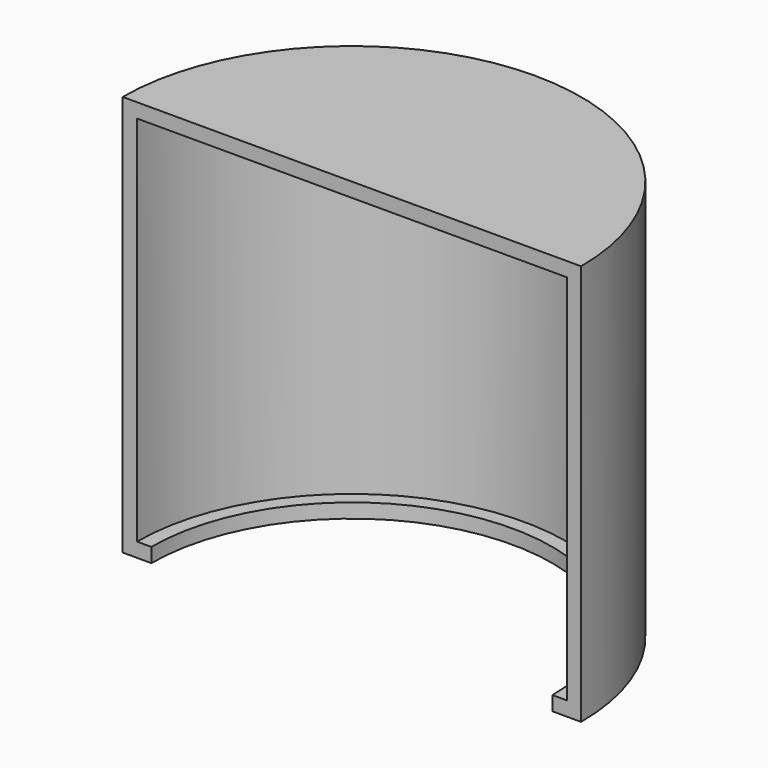
from build123d import *

# Parameters (mm, degrees)
CYLINDER033_R     = 14
CYLINDER033_DEPTH = 20
BOX_W             = 36
BOX_H             = 16
BOX_DEPTH         = 41
CYLINDER030_R     = 16
CYLINDER030_DEPTH = 28
THICKNESS001_T    = -1


with BuildPart() as cilindro013:
    # Cylinder033 → Cylinder033 (new body)
    with BuildSketch(Plane(origin=(0, 17, 40), x_dir=(1, 0, 0), z_dir=(0, 0, 1))):
        Circle(CYLINDER033_R)
    extrude(amount=CYLINDER033_DEPTH)


with BuildPart() as cubo:
    # Box → Box (new body)
    with BuildSketch(Plane(origin=(-19, 1, 45), x_dir=(1, 0, 0), z_dir=(0, 0, 1))):
        with Locations((18, 8)):
            Rectangle(BOX_W, BOX_H)
    extrude(amount=BOX_DEPTH)


with BuildPart() as cut013016:
    # Cylinder030 → Cylinder030 (new body)
    with BuildSketch(Plane(origin=(0, 17, 45), x_dir=(1, 0, 0), z_dir=(0, 0, 1))):
        Circle(CYLINDER030_R)
    extrude(amount=CYLINDER030_DEPTH)

    # Cut013013: cut Cubo
    add(cubo.part, mode=Mode.SUBTRACT)


with BuildPart() as cut013016_1:
    # Cut013013 placement: moved
    add(cut013016.part.moved(Location((0, 5, 1))))

    # Thickness001
    thickness001_openings = [cut013016_1.faces().sort_by_distance(p)[0] for p in [
        (0, 22, 60),
    ]]
    offset(amount=THICKNESS001_T, openings=thickness001_openings)


with BuildPart() as cut013016_2:
    # Thickness001 placement: moved
    add(cut013016_1.part.moved(Location((0, -5, -2))))

    # Cut013016: cut Cilindro013
    add(cilindro013.part, mode=Mode.SUBTRACT)


solid = cut013016_2.part
